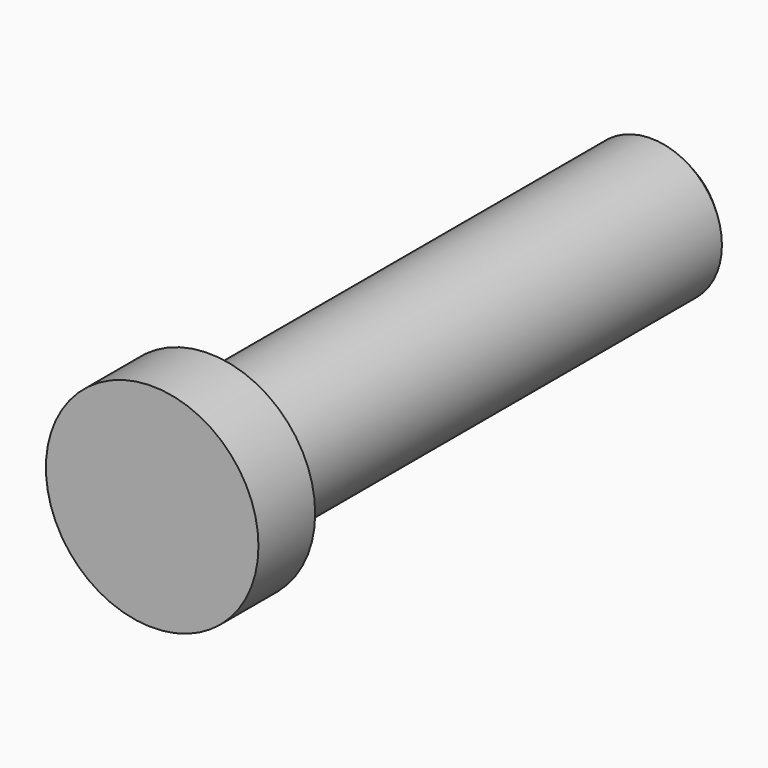
from build123d import *

# Parameters (mm, degrees)
F2_R     = 9.525
F3_DEPTH = 6.35
F4_R     = 6.35
F5_DEPTH = 50.8
F6_SIZE  = 1.27


with BuildPart() as f3:
    # F2 (on Front) → F3 (new body)
    with BuildSketch(Plane.XZ):
        Circle(F2_R)
    extrude(amount=F3_DEPTH)

    # F4 (on Front) → F5 (join)
    with BuildSketch(Plane.XZ):
        Circle(F4_R)
    extrude(amount=-F5_DEPTH)

    # F6
    f6_edges = [f3.edges().sort_by_distance(p)[0] for p in [
        (-6.35, 50.8, 0),
    ]]
    chamfer(f6_edges, length=F6_SIZE)


solid = f3.part
